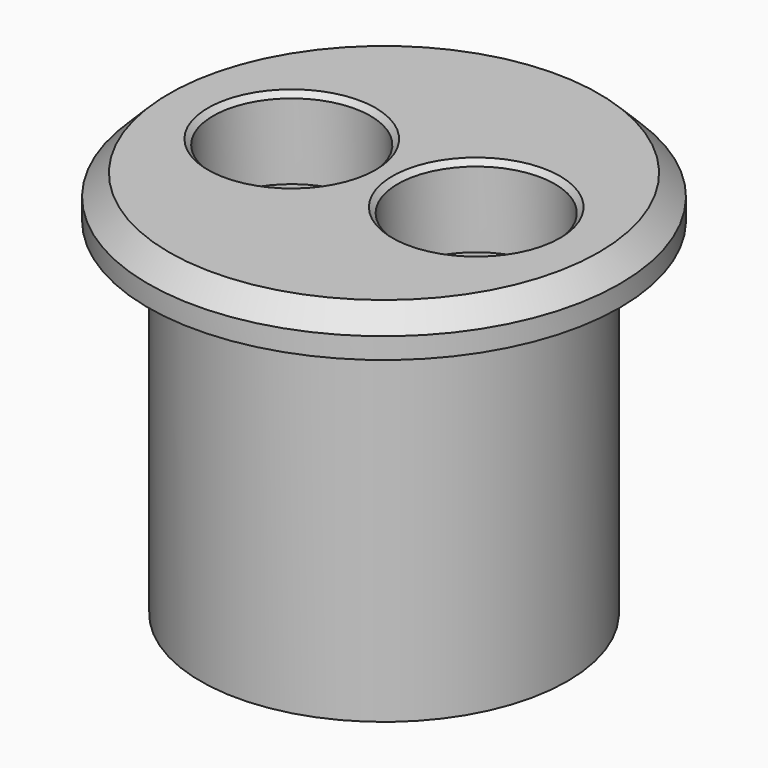
from build123d import *

# Parameters (mm, degrees)
F0_R     = 17.5
F1_DEPTH = 33
F2_R     = 22.5
F3_DEPTH = 4
F4_R     = 7.5
F4_R_2   = 4.075
F5_DEPTH = 7.7
F6_DEPTH = 37.001
F7_SIZE  = 2
F8_SIZE  = 0.5


with BuildPart() as f1:
    # F0 (on Top) → F1 (new body)
    with BuildSketch(Plane.XY):
        Circle(F0_R)
    extrude(amount=F1_DEPTH)

    # F2 (on face) → F3 (join)
    with BuildSketch(Plane.XY.offset(33)):
        Circle(F2_R)
    extrude(amount=F3_DEPTH)

    # F4 (on face) → F5 (cut)
    with BuildSketch(Plane.XY.offset(37)):
        with Locations((-8.8, 0)):
            Circle(F4_R)
        with Locations((-8.8, 0)):
            Circle(F4_R_2, mode=Mode.SUBTRACT)
        with Locations((8.8, 0)):
            Circle(F4_R)
        with Locations((8.8, 0)):
            Circle(F4_R_2, mode=Mode.SUBTRACT)
    extrude(amount=-F5_DEPTH, mode=Mode.SUBTRACT)

    # F6 (cut, through all): faces of the model
    f6_faces = [f1.faces().sort_by_distance(p)[0] for p in [
        (-8.8, 0, 37),
        (8.8, 0, 37),
    ]]
    extrude(f6_faces, amount=-F6_DEPTH, mode=Mode.SUBTRACT)

    # F7
    f7_edges = [f1.edges().sort_by_distance(p)[0] for p in [
        (-22.5, 0, 37),
    ]]
    chamfer(f7_edges, length=F7_SIZE)

    # F8
    f8_edges = [f1.edges().sort_by_distance(p)[0] for p in [
        (-16.3, 0, 37),
        (1.3, 0, 37),
        (-12.875, 0, 0),
        (4.725, 0, 0),
    ]]
    chamfer(f8_edges, length=F8_SIZE)


solid = f1.part
